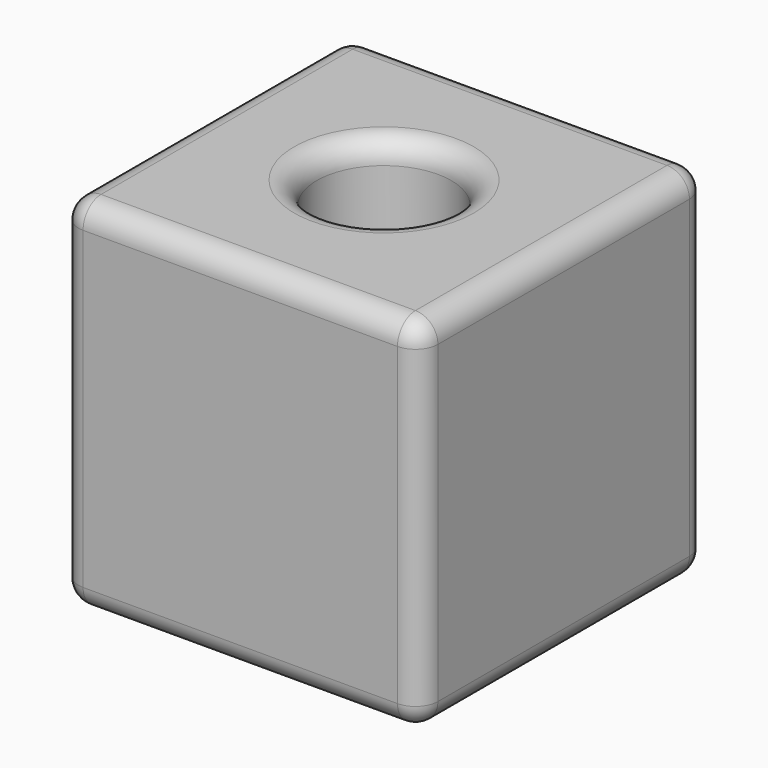
from build123d import *

# Parameters (mm, degrees)
F0_W     = 80
F0_H     = 80
F1_DEPTH = 40
F2_R     = 5
F3_R     = 15
F4_DEPTH = 80.001
F5_R     = 5


with BuildPart() as f1:
    # F0 (on Top) → F1 (new body, symmetric)
    with BuildSketch(Plane.XY):
        Rectangle(F0_W, F0_H)
    extrude(amount=F1_DEPTH, both=True)

    # F2
    f2_edges = [f1.edges().sort_by_distance(p)[0] for p in [
        (0, 40, 40),
        (-40, 0, 40),
        (40, 0, 40),
        (0, -40, 40),
        (-40, 40, 0),
        (-40, 0, -40),
        (-40, -40, 0),
        (0, 40, -40),
        (40, 0, -40),
        (0, -40, -40),
        (40, 40, 0),
        (40, -40, 0),
    ]]
    fillet(f2_edges, radius=F2_R)

    # F3 (on face) → F4 (cut, through all)
    with BuildSketch(Plane.XY.offset(40)):
        Circle(F3_R)
    extrude(amount=-F4_DEPTH, mode=Mode.SUBTRACT)

    # F5
    f5_edges = [f1.edges().sort_by_distance(p)[0] for p in [
        (-15, 0, 40),
        (15, 0, 0),
        (-15, 0, -40),
    ]]
    fillet(f5_edges, radius=F5_R)


solid = f1.part
